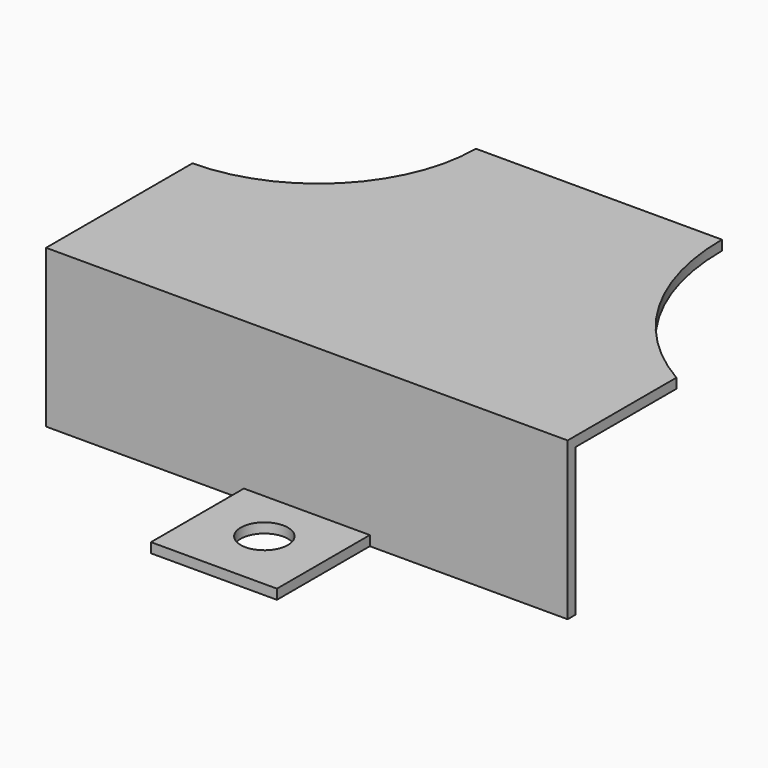
from build123d import *

# Parameters (mm, degrees)
CYLINDER002_R     = 0.6
CYLINDER002_DEPTH = 4
CYLINDER001_R     = 6
CYLINDER001_DEPTH = 6
CYLINDER_R        = 4
CYLINDER_DEPTH    = 6
CUBE004_W         = 6.025
CUBE004_H         = 3.95
CUBE004_DEPTH     = 4
CUBE003_W         = 6.025
CUBE003_H         = 3.95
CUBE003_DEPTH     = 4
CUBE002_W         = 15.25
CUBE002_H         = 11.6
CUBE002_DEPTH     = 4
CUBE001_W         = 15.25
CUBE001_H         = 3.95
CUBE001_DEPTH     = 4
CUBE_W            = 13.25
CUBE_H            = 11.6
CUBE_DEPTH        = 4


with BuildPart() as cylinder002:
    # cylinder002 → cylinder002 (new body)
    with BuildSketch(Plane(origin=(6.625, -10, -1), x_dir=(1, 0, 0), z_dir=(0, 0, 1))):
        Circle(CYLINDER002_R)
    extrude(amount=CYLINDER002_DEPTH)


with BuildPart() as cylinder001:
    # cylinder001 → cylinder001 (new body)
    with BuildSketch(Plane(origin=(16.25, 0, 0), x_dir=(1, 0, 0), z_dir=(0, 0, 1))):
        Circle(CYLINDER001_R)
    extrude(amount=CYLINDER001_DEPTH)


with BuildPart() as cylinder:
    # cylinder → cylinder (new body)
    with BuildSketch(Plane.XY):
        Circle(CYLINDER_R)
    extrude(amount=CYLINDER_DEPTH)


with BuildPart() as cube004:
    # cube004 → cube004 (new body)
    with BuildSketch(Plane(origin=(8.225, -12.6, -1), x_dir=(1, 0, 0), z_dir=(0, 0, 1))):
        with Locations((3.0125, 1.975)):
            Rectangle(CUBE004_W, CUBE004_H)
    extrude(amount=CUBE004_DEPTH)


with BuildPart() as cube003:
    # cube003 → cube003 (new body)
    with BuildSketch(Plane(origin=(-1, -12.6, -1), x_dir=(1, 0, 0), z_dir=(0, 0, 1))):
        with Locations((3.0125, 1.975)):
            Rectangle(CUBE003_W, CUBE003_H)
    extrude(amount=CUBE003_DEPTH)


with BuildPart() as cube002:
    # cube002 → cube002 (new body)
    with BuildSketch(Plane(origin=(-1, -8.4, -0.25), x_dir=(1, 0, 0), z_dir=(0, 0, 1))):
        with Locations((7.625, 5.8)):
            Rectangle(CUBE002_W, CUBE002_H)
    extrude(amount=CUBE002_DEPTH)


with BuildPart() as cube001:
    # cube001 → cube001 (new body)
    with BuildSketch(Plane(origin=(-1, -1, 0.25), x_dir=(1, 0, 0), z_dir=(0, 0, 1))):
        with Locations((7.625, 1.975)):
            Rectangle(CUBE001_W, CUBE001_H)
    extrude(amount=CUBE001_DEPTH)


with BuildPart() as difference006:
    # cube → cube (new body)
    with BuildSketch(Plane.XY):
        with Locations((6.625, 5.8)):
            Rectangle(CUBE_W, CUBE_H)
    extrude(amount=CUBE_DEPTH)

    # difference: cut cube001
    add(cube001.part, mode=Mode.SUBTRACT)


with BuildPart() as difference006_1:
    # difference placement: moved
    add(difference006.part.moved(Location((0, -11.6, 0))))

    # difference001: cut cube002
    add(cube002.part, mode=Mode.SUBTRACT)

    # difference002: cut cube003
    add(cube003.part, mode=Mode.SUBTRACT)

    # difference003: cut cube004
    add(cube004.part, mode=Mode.SUBTRACT)

    # difference004: cut cylinder
    add(cylinder.part, mode=Mode.SUBTRACT)

    # difference005: cut cylinder001
    add(cylinder001.part, mode=Mode.SUBTRACT)

    # difference006: cut cylinder002
    add(cylinder002.part, mode=Mode.SUBTRACT)


solid = difference006_1.part
